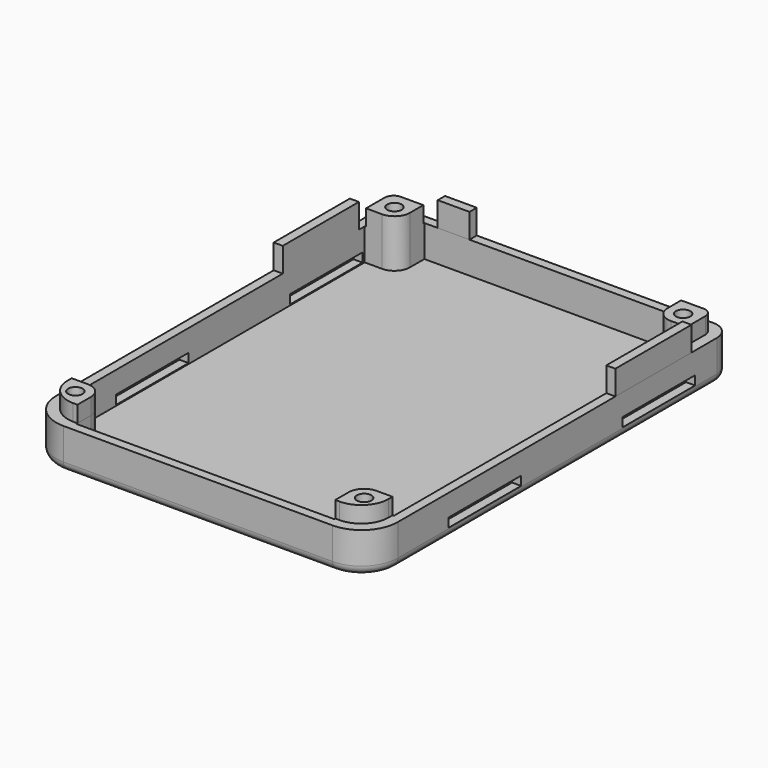
from build123d import *

# Parameters (mm, degrees)
PAD014_DEPTH    = 9
FILLET012_R     = 2
SKETCH024_R     = 3
POCKET009_DEPTH = 2.6
SKETCH025_R     = 1.6
POCKET010_DEPTH = 7
SKETCH026_R     = 1.6
PAD015_DEPTH    = 3.6
SKETCH027_W     = 2
SKETCH027_H     = 21
SKETCH027_W_2   = 7
SKETCH027_H_2   = 2
PAD016_DEPTH    = 5.4
SKETCH028_W     = 20
SKETCH028_H     = 2
POCKET011_DEPTH = 77.701


with BuildPart() as part:
    # Sketch023 → Pad014 (new body)
    with BuildSketch(Plane.XY):
        with BuildLine():
            Line((-33.7, 21.5), (33.7, 21.5))
            ThreePointArc((37.7, 17.5), (36.528427, 20.328427), (33.7, 21.5))
            Line((37.7, 17.5), (37.7, -70.5))
            ThreePointArc((29.7, -78.5), (35.356854, -76.156854), (37.7, -70.5))
            Line((29.7, -78.5), (-29.7, -78.5))
            ThreePointArc((-37.7, -70.5), (-35.356854, -76.156854), (-29.7, -78.5))
            Line((-37.7, -70.5), (-37.7, 17.5))
            ThreePointArc((-33.7, 21.5), (-36.528427, 20.328427), (-37.7, 17.5))
        make_face()
    extrude(amount=-PAD014_DEPTH)

    # Fillet012
    fillet012_edges = [part.edges().sort_by_distance(p)[0] for p in [
        (0, 21.5, -9),
    ]]
    fillet(fillet012_edges, radius=FILLET012_R)

    # Sketch024 (on Face8 of Fillet012) → Pocket009 (cut)
    with BuildSketch(Plane(origin=(0, 0, -9), x_dir=(1, 0, 0), z_dir=(0, 0, -1))):
        with Locations((-31.85, 72.5)):
            Circle(SKETCH024_R)
        with Locations((31.85, 72.5)):
            Circle(SKETCH024_R)
        with Locations((-31.85, -15.5)):
            Circle(SKETCH024_R)
        with Locations((31.85, -15.5)):
            Circle(SKETCH024_R)
    extrude(amount=-POCKET009_DEPTH, mode=Mode.SUBTRACT)

    # Sketch025 (on Face4 of Pocket009) → Pocket010 (cut)
    with BuildSketch(Plane.XY):
        with Locations((-31.85, 15.5)):
            Circle(SKETCH025_R)
        with Locations((31.85, 15.5)):
            Circle(SKETCH025_R)
        with Locations((31.85, -72.5)):
            Circle(SKETCH025_R)
        with Locations((-31.85, -72.5)):
            Circle(SKETCH025_R)
        with BuildLine():
            Line((-31.85, 12.1), (-35.7, 12.1))
            Line((-35.7, 12.1), (-35.7, -69.1))
            Line((-35.7, -69.1), (-31.85, -69.1))
            ThreePointArc((-28.45, -72.5), (-29.445837, -70.095837), (-31.85, -69.1))
            Line((-28.45, -76.5), (-28.45, -72.5))
            Line((-28.45, -76.5), (28.45, -76.5))
            Line((28.45, -76.5), (28.45, -72.5))
            ThreePointArc((31.85, -69.1), (29.445837, -70.095837), (28.45, -72.5))
            Line((35.7, -69.1), (31.85, -69.1))
            Line((35.7, -69.1), (35.7, 12.1))
            Line((35.7, 12.1), (31.85, 12.1))
            ThreePointArc((28.45, 15.5), (29.445837, 13.095837), (31.85, 12.1))
            Line((28.45, 19.5), (28.45, 15.5))
            Line((28.45, 19.5), (-28.45, 19.5))
            Line((-28.45, 19.5), (-28.45, 15.5))
            ThreePointArc((-31.85, 12.1), (-29.445837, 13.095837), (-28.45, 15.5))
        make_face()
    extrude(amount=-POCKET010_DEPTH, mode=Mode.SUBTRACT)

    # Sketch026 (on Face4 of Pocket010) → Pad015 (join)
    with BuildSketch(Plane.XY):
        with BuildLine():
            Line((-31.85, 12.1), (-35.4, 12.1))
            Line((-35.4, 12.1), (-35.4, 17.2))
            ThreePointArc((-33.4, 19.2), (-34.814214, 18.614214), (-35.4, 17.2))
            Line((-28.45, 19.2), (-33.4, 19.2))
            Line((-28.45, 19.2), (-28.45, 15.5))
            ThreePointArc((-31.85, 12.1), (-29.445837, 13.095837), (-28.45, 15.5))
        make_face()
        with Locations((-31.85, 15.5)):
            Circle(SKETCH026_R, mode=Mode.SUBTRACT)
        with BuildLine():
            Line((35.4, 12.1), (31.85, 12.1))
            ThreePointArc((28.45, 15.5), (29.445837, 13.095837), (31.85, 12.1))
            Line((28.45, 19.2), (28.45, 15.5))
            Line((28.45, 19.2), (33.4, 19.2))
            ThreePointArc((35.4, 17.2), (34.814214, 18.614214), (33.4, 19.2))
            Line((35.4, 12.1), (35.4, 17.2))
        make_face()
        with Locations((31.85, 15.5)):
            Circle(SKETCH026_R, mode=Mode.SUBTRACT)
        with BuildLine():
            Line((28.45, -76.2), (28.45, -72.5))
            ThreePointArc((31.85, -69.1), (29.445837, -70.095837), (28.45, -72.5))
            Line((35.4, -69.1), (31.85, -69.1))
            Line((35.4, -69.1), (35.4, -70.2))
            ThreePointArc((29.4, -76.2), (33.642641, -74.442641), (35.4, -70.2))
            Line((28.45, -76.2), (29.4, -76.2))
        make_face()
        with Locations((31.85, -72.5)):
            Circle(SKETCH026_R, mode=Mode.SUBTRACT)
        with BuildLine():
            Line((-35.4, -69.1), (-31.85, -69.1))
            ThreePointArc((-28.45, -72.5), (-29.445837, -70.095837), (-31.85, -69.1))
            Line((-28.45, -76.2), (-28.45, -72.5))
            Line((-28.45, -76.2), (-29.4, -76.2))
            ThreePointArc((-35.4, -70.2), (-33.642641, -74.442641), (-29.4, -76.2))
            Line((-35.4, -69.1), (-35.4, -70.2))
        make_face()
        with Locations((-31.85, -72.5)):
            Circle(SKETCH026_R, mode=Mode.SUBTRACT)
    extrude(amount=PAD015_DEPTH)

    # Sketch027 (on Face4 of Pad015) → Pad016 (join)
    with BuildSketch(Plane.XY):
        with Locations((-36.7, 0)):
            Rectangle(SKETCH027_W, SKETCH027_H)
        with Locations((36.7, 0)):
            Rectangle(SKETCH027_W, SKETCH027_H)
        with Locations((-22, 20.5)):
            Rectangle(SKETCH027_W_2, SKETCH027_H_2)
    extrude(amount=PAD016_DEPTH)

    # Sketch028 → Pocket011 (cut, through all)
    with BuildSketch(Plane.YZ.offset(40)):
        with Locations((-46.5, -5.8)):
            Rectangle(SKETCH028_W, SKETCH028_H)
        with Locations((1.5, -5.8)):
            Rectangle(SKETCH028_W, SKETCH028_H)
    extrude(amount=-POCKET011_DEPTH, mode=Mode.SUBTRACT)


with BuildPart() as part_1:
    # Body006 placement: moved
    add(part.part.moved(Location((0, 0, -2))))


solid = part_1.part
